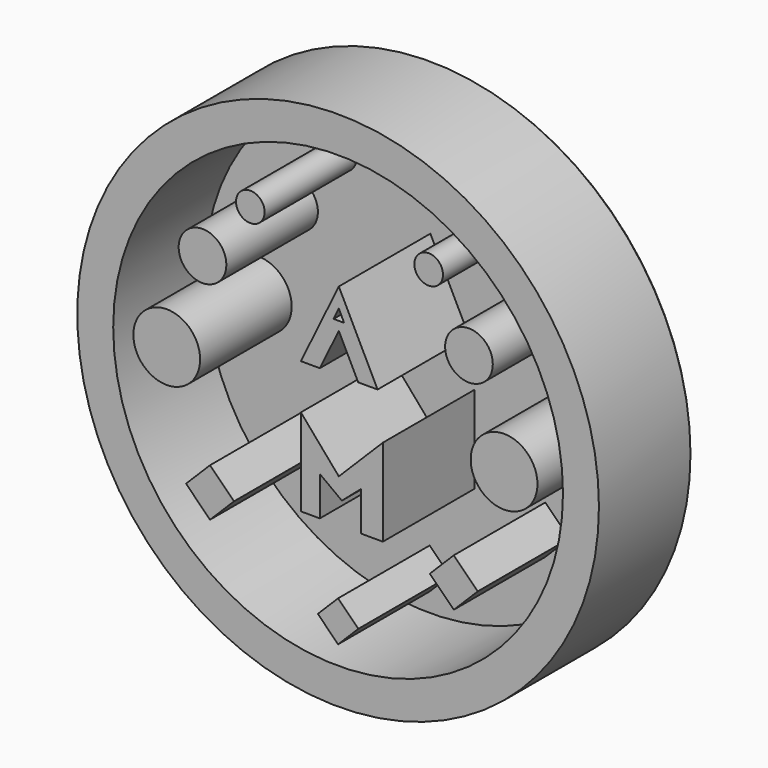
from build123d import *

# Parameters (mm, degrees)
F0_R     = 3.5
F1_DEPTH = 12
F0_R_2   = 1.5
F0_R_3   = 2.5
F0_R_4   = 27.3527253219
F0_R_5   = 23.5824909137
F2_R     = 27.1261109812
F3_DEPTH = 0.254


with BuildPart() as f1:
    # F0 (on Front) → F1 (new body)
    with BuildSketch(Plane.XZ):
        with Locations((17.4061976158, 0)):
            Circle(F0_R)
    extrude(amount=F1_DEPTH)


with BuildPart() as f1b:
    # F0 (on Front) → F1, piece 2 (new body)
    with BuildSketch(Plane.XZ):
        with Locations((9.4984066482, 16.101944412)):
            Circle(F0_R_2)
    extrude(amount=F1_DEPTH)


with BuildPart() as f1c:
    # F0 (on Front) → F1, piece 3 (new body)
    with BuildSketch(Plane.XZ):
        with Locations((-9.2026143736, 15.7940543255)):
            Circle(F0_R_2)
    extrude(amount=F1_DEPTH)


with BuildPart() as f1d:
    # F0 (on Front) → F1, piece 4 (new body)
    with BuildSketch(Plane.XZ):
        with Locations((-14.2177977405, 9.6314383245)):
            Circle(F0_R_3)
    extrude(amount=F1_DEPTH)


with BuildPart() as f1e:
    # F0 (on Front) → F1, piece 5 (new body)
    with BuildSketch(Plane.XZ):
        with Locations((13.7222022595, 9.5326483588)):
            Circle(F0_R_3)
    extrude(amount=F1_DEPTH)


with BuildPart() as f1f:
    # F0 (on Front) → F1, piece 6 (new body)
    with BuildSketch(Plane.XZ):
        Circle(F0_R_4)
        Circle(F0_R_5, mode=Mode.SUBTRACT)
    extrude(amount=F1_DEPTH)


with BuildPart() as f1g:
    # F0 (on Front) → F1, piece 7 (new body)
    with BuildSketch(Plane.XZ):
        with Locations((-17.9678955535, 0)):
            Circle(F0_R)
    extrude(amount=F1_DEPTH)


with BuildPart() as f1h:
    # F0 (on Front) → F1, piece 8 (new body)
    with BuildSketch(Plane.XZ):
        Polygon((0.0756857552, -6.0683971426), (-3.9020974945, -1.4490404322), (-3.9020974945, -10.5930404322), (-1.9132058697, -10.5930404322), (-1.9132058697, -6.4903854548), (0.3964724856, -8.2030437937), (2.3853641104, -6.4903854548), (2.3853641104, -10.5930404322), (4.6950424656, -10.5930404322), (4.6950424656, -1.4490404322), align=None)
    extrude(amount=F1_DEPTH)


with BuildPart() as f1i:
    # F0 (on Front) → F1, piece 9 (new body)
    with BuildSketch(Plane.XZ):
        Polygon((12.1296229255, -9.431693289), (9.6151512116, -11.9461650029), (12.1296229255, -14.4606367168), (14.6440946394, -11.9461650029), align=None)
    extrude(amount=F1_DEPTH)


with BuildPart() as f1j:
    # F0 (on Front) → F1, piece 10 (new body)
    with BuildSketch(Plane.XZ):
        Polygon((2.1242466944, -19.4725436347), (0, -17.3482969403), (-2.1242466944, -19.4725436347), (0, -21.596790329), align=None)
    extrude(amount=F1_DEPTH)


with BuildPart() as f1k:
    # F0 (on Front) → F1, piece 11 (new body)
    with BuildSketch(Plane.XZ):
        Polygon((-10.9172082609, -11.9461650029), (-13.4316799748, -9.431693289), (-15.9461516887, -11.9461650029), (-13.4316799748, -14.4606367168), align=None)
    extrude(amount=F1_DEPTH)


with BuildPart() as f1l:
    # F0 (on Front) → F1, piece 12 (new body)
    with BuildSketch(Plane.XZ):
        Polygon((4.1396857552, 3.2729429626), (0.0756857552, 11.4641968348), (-3.9020974945, 3.2729429626), (-1.9132058697, 3.2729429626), (0.0756857552, 7.3685698987), (2.1076857552, 3.2729429626), align=None)
        Polygon((-0.4790890904, 8.2890743717), (0.0756857552, 9.4314949907), (0.6304606008, 8.2890743717), align=None, mode=Mode.SUBTRACT)
    extrude(amount=F1_DEPTH)


with BuildPart() as f3:
    # F2 (on Front) → F3 (new body)
    with BuildSketch(Plane.XZ):
        Circle(F2_R)
    extrude(amount=-F3_DEPTH)


solid = Compound([f1.part, f1b.part, f1c.part, f1d.part, f1e.part, f1f.part, f1g.part, f1h.part, f1i.part, f1j.part, f1k.part, f1l.part, f3.part])
